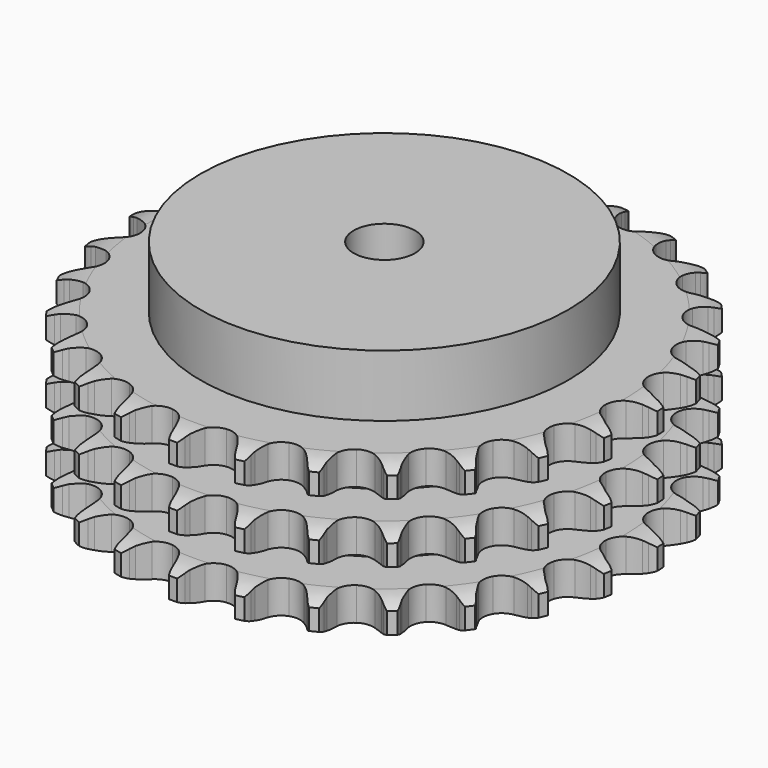
from build123d import *

# Parameters (mm, degrees)
PAD_DEPTH         = 49.8
SKETCH001_R       = 60
PAD001_DEPTH      = 70
SKETCH002_R       = 10
POCKET_DEPTH      = 0.001
POCKET_DEPTH_BACK = 70.001


with BuildPart() as part:
    # Sprocket → Pad (new body)
    with BuildSketch(Plane.XY):
        with BuildLine():
            ThreePointArc((-10.223451, 87.467216), (-8.67739, 85.726182), (-7.581898, 83.671577))
            Line((-7.581898, 83.671577), (-6.99412, 82.163716))
            ThreePointArc((-6.99412, 82.163716), (-6.059632, 80.184804), (-4.86001, 78.354431))
            ThreePointArc((-4.86001, 78.354431), (-2.712671, 76.57905), (0, 75.943076))
            ThreePointArc((0, 75.943076), (2.712671, 76.57905), (4.86001, 78.354431))
            ThreePointArc((4.86001, 78.354431), (6.059632, 80.184804), (6.99412, 82.163716))
            Line((6.99412, 82.163716), (7.581898, 83.671577))
            ThreePointArc((7.581898, 83.671577), (8.67739, 85.726182), (10.223451, 87.467216))
            ThreePointArc((10.223451, 87.467216), (11.326328, 85.416565), (11.918466, 83.164705))
            Line((11.918466, 83.164705), (12.142664, 81.561937))
            ThreePointArc((12.142664, 81.561937), (12.595595, 79.42086), (13.340768, 77.363173))
            ThreePointArc((13.340768, 77.363173), (15.020794, 75.140437), (17.513679, 73.896021))
            ThreePointArc((17.513679, 73.896021), (20.299894, 73.889267), (22.798783, 75.121582))
            Line((22.798783, 75.121582), (25.75385, 78.336027))
            ThreePointArc((25.75385, 78.336027), (26.19658, 79.013673), (26.673521, 79.667692))
            ThreePointArc((26.673521, 79.667692), (28.213308, 81.414277), (30.119205, 82.751835))
            ThreePointArc((30.119205, 82.751835), (30.719441, 80.50212), (30.776303, 78.174402))
            Line((30.776303, 78.174402), (30.624834, 76.563134))
            ThreePointArc((30.624834, 76.563134), (30.57179, 74.375316), (30.822341, 72.201246))
            ThreePointArc((30.822341, 72.201246), (31.944484, 69.650983), (34.08319, 67.865212))
            ThreePointArc((34.08319, 67.865212), (36.792746, 67.216094), (39.508468, 67.838909))
            Line((39.508468, 67.838909), (43.125183, 70.285223))
            ThreePointArc((43.125183, 70.285223), (43.712255, 70.842502), (44.327167, 71.368902))
            ThreePointArc((44.327167, 71.368902), (46.228239, 72.713308), (48.391224, 73.575282))
            ThreePointArc((48.391224, 73.575282), (48.456461, 71.247784), (47.974982, 68.969697))
            Line((47.974982, 68.969697), (47.456012, 67.436792))
            ThreePointArc((47.456012, 67.436792), (46.899851, 65.32018), (46.642274, 63.146931))
            ThreePointArc((46.642274, 63.146931), (47.146038, 60.406627), (48.815268, 58.175771))
            ThreePointArc((48.815268, 58.175771), (51.302091, 56.919285), (54.088241, 56.899023))
            Line((54.088241, 56.899023), (58.171626, 58.445324))
            ThreePointArc((58.171626, 58.445324), (58.871391, 58.852194), (59.591124, 59.222596))
            ThreePointArc((59.591124, 59.222596), (61.750994, 60.092346), (64.05446, 60.432267))
            ThreePointArc((64.05446, 60.432267), (63.58118, 58.152462), (62.587317, 56.046817))
            Line((62.587317, 56.046817), (61.728823, 54.674915))
            ThreePointArc((61.728823, 54.674915), (60.69953, 52.743616), (59.94771, 50.688348))
            ThreePointArc((59.94771, 50.688348), (59.805937, 47.905734), (60.915703, 45.35006))
            ThreePointArc((60.915703, 45.35006), (63.045726, 43.553942), (65.752103, 42.891695))
            Line((65.752103, 42.891695), (70.082021, 43.454623))
            ThreePointArc((70.082021, 43.454623), (70.856755, 43.689148), (71.642508, 43.883584))
            ThreePointArc((71.642508, 43.883584), (73.944737, 44.23179), (76.264504, 44.031332))
            ThreePointArc((76.264504, 44.031332), (75.278222, 41.922125), (73.825553, 40.10244))
            Line((73.825553, 40.10244), (72.673818, 38.965499))
            ThreePointArc((72.673818, 38.965499), (71.226881, 37.32363), (70.021349, 35.497144))
            ThreePointArc((70.021349, 35.497144), (69.241683, 32.82223), (69.732156, 30.079516))
            ThreePointArc((69.732156, 30.079516), (71.390551, 27.840594), (73.871252, 26.572066))
            Line((73.871252, 26.572066), (78.214277, 26.121272))
            ThreePointArc((78.214277, 26.121272), (79.022212, 26.17081), (79.831626, 26.178797))
            ThreePointArc((79.831626, 26.178797), (82.152099, 25.986686), (84.363108, 25.256657))
            ThreePointArc((84.363108, 25.256657), (82.916995, 23.431756), (81.083835, 21.996129))
            Line((81.083835, 21.996129), (79.700948, 21.155443))
            ThreePointArc((79.700948, 21.155443), (77.914373, 19.891518), (76.32012, 18.392279))
            ThreePointArc((76.32012, 18.392279), (74.944592, 15.969271), (74.78933, 13.187377))
            ThreePointArc((74.78933, 13.187377), (75.886692, 10.626353), (78.007983, 8.819929))
            Line((78.007983, 8.819929), (82.129981, 7.379716))
            ThreePointArc((82.129981, 7.379716), (82.927563, 7.241596), (83.717, 7.062705))
            ThreePointArc((83.717, 7.062705), (85.930621, 6.340634), (87.913676, 5.120389))
            ThreePointArc((87.913676, 5.120389), (86.085692, 3.678175), (83.970866, 2.704001))
            Line((83.970866, 2.704001), (82.43138, 2.204892))
            ThreePointArc((82.43138, 2.204892), (80.401481, 1.387048), (78.504452, 0.295882))
            ThreePointArc((78.504452, 0.295882), (76.607218, -1.744595), (75.814592, -4.415697))
            ThreePointArc((75.814592, -4.415697), (76.291762, -7.160757), (77.939284, -9.407692))
            Line((77.939284, -9.407692), (81.618036, -11.759683))
            ThreePointArc((81.618036, -11.759683), (82.362266, -12.078015), (83.089169, -12.43414))
            ThreePointArc((83.089169, -12.43414), (85.076601, -13.647244), (86.724794, -15.291921))
            ThreePointArc((86.724794, -15.291921), (84.613487, -16.273697), (82.331006, -16.7339))
            Line((82.331006, -16.7339), (80.717914, -16.864525))
            ThreePointArc((80.717914, -16.864525), (78.554124, -17.192197), (76.45659, -17.816466))
            ThreePointArc((76.45659, -17.816466), (74.139929, -19.364409), (72.75267, -21.78072))
            ThreePointArc((72.75267, -21.78072), (72.583924, -24.561829), (73.668857, -27.128142))
            Line((73.668857, -27.128142), (76.706042, -30.265113))
            ThreePointArc((76.706042, -30.265113), (77.356799, -30.746496), (77.98198, -31.260658))
            ThreePointArc((77.98198, -31.260658), (79.636079, -32.899395), (80.860556, -34.879839))
            ThreePointArc((80.860556, -34.879839), (78.579746, -35.34825), (76.25266, -35.269672))
            Line((76.25266, -35.269672), (74.652925, -35.024772))
            ThreePointArc((74.652925, -35.024772), (72.471894, -34.844607), (70.286933, -34.968324))
            ThreePointArc((70.286933, -34.968324), (67.675738, -35.940283), (65.768633, -37.971538))
            ThreePointArc((65.768633, -37.971538), (64.963067, -40.638767), (65.426923, -43.386107))
            Line((65.426923, -43.386107), (67.658805, -47.138944))
            ThreePointArc((67.658805, -47.138944), (68.181006, -47.757426), (68.670762, -48.401905))
            ThreePointArc((68.670762, -48.401905), (69.902356, -50.377931), (70.637105, -52.587376))
            ThreePointArc((70.637105, -52.587376), (68.309751, -52.51717), (66.063514, -51.904047))
            Line((66.063514, -51.904047), (64.563378, -51.296824))
            ThreePointArc((64.563378, -51.296824), (62.482685, -50.618535), (60.328089, -50.23503))
            ThreePointArc((60.328089, -50.23503), (57.56313, -50.578607), (55.238992, -52.115301))
            ThreePointArc((55.238992, -52.115301), (53.840035, -54.524858), (53.657807, -57.305116))
            Line((53.657807, -57.305116), (54.964065, -61.471502))
            ThreePointArc((54.964065, -61.471502), (55.329558, -62.19374), (55.657485, -62.933793))
            ThreePointArc((55.657485, -62.933793), (56.400178, -65.14058), (56.605589, -67.459914))
            ThreePointArc((56.605589, -67.459914), (54.35716, -66.854876), (52.312866, -65.740261))
            Line((52.312866, -65.740261), (50.993202, -64.803451))
            ThreePointArc((50.993202, -64.803451), (49.125019, -63.663605), (47.116942, -62.793553))
            ThreePointArc((47.116942, -62.793553), (44.347279, -62.490226), (41.731402, -63.449514))
            ThreePointArc((41.731402, -63.449514), (39.814472, -65.4715), (38.995985, -68.134791))
            Line((38.995985, -68.134791), (39.306197, -72.490115))
            ThreePointArc((39.306197, -72.490115), (39.495279, -73.277174), (39.643699, -74.072904))
            ThreePointArc((39.643699, -74.072904), (39.857453, -76.391484), (39.522451, -78.695671))
            ThreePointArc((39.522451, -78.695671), (37.47416, -77.588418), (35.742019, -76.032401))
            Line((35.742019, -76.032401), (34.673969, -74.816508))
            ThreePointArc((34.673969, -74.816508), (33.11901, -73.276553), (31.365709, -71.96686))
            ThreePointArc((31.365709, -71.96686), (28.740654, -71.03298), (25.974062, -71.363148))
            ThreePointArc((25.974062, -71.363148), (23.642501, -72.888556), (22.231879, -75.291302))
            Line((22.231879, -75.291302), (21.529323, -79.600768))
            ThreePointArc((21.529323, -79.600768), (21.5318, -80.410217), (21.492711, -81.218725))
            ThreePointArc((21.492711, -81.218725), (21.166001, -83.524103), (20.308648, -85.688923))
            ThreePointArc((20.308648, -85.688923), (18.570919, -84.139148), (17.244309, -82.225615))
            Line((17.244309, -82.225615), (16.485454, -80.796186))
            ThreePointArc((16.485454, -80.796186), (15.327546, -78.939143), (13.923542, -77.260414))
            ThreePointArc((13.923542, -77.260414), (11.584614, -75.746328), (8.816453, -75.429576))
            ThreePointArc((8.816453, -75.429576), (6.195957, -76.376172), (4.269246, -78.388839))
            Line((4.269246, -78.388839), (2.591797, -82.420122))
            ThreePointArc((2.591797, -82.420122), (2.407535, -83.208324), (2.183045, -83.986024))
            ThreePointArc((2.183045, -83.986024), (1.333485, -86.153915), (0, -88.062664))
            ThreePointArc((0, -88.062664), (-1.333485, -86.153915), (-2.183045, -83.986024))
            Line((-2.183045, -83.986024), (-2.591797, -82.420122))
            ThreePointArc((-2.591797, -82.420122), (-3.290229, -80.346104), (-4.269246, -78.388839))
            ThreePointArc((-4.269246, -78.388839), (-6.195957, -76.376172), (-8.816453, -75.429576))
            ThreePointArc((-8.816453, -75.429576), (-11.584614, -75.746328), (-13.923542, -77.260414))
            Line((-13.923542, -77.260414), (-16.485454, -80.796186))
            ThreePointArc((-16.485454, -80.796186), (-16.84652, -81.520648), (-17.244309, -82.225615))
            ThreePointArc((-17.244309, -82.225615), (-18.570919, -84.139148), (-20.308648, -85.688923))
            ThreePointArc((-20.308648, -85.688923), (-21.166001, -83.524103), (-21.492711, -81.218725))
            Line((-21.492711, -81.218725), (-21.529323, -79.600768))
            ThreePointArc((-21.529323, -79.600768), (-21.730627, -77.421585), (-22.231879, -75.291302))
            ThreePointArc((-22.231879, -75.291302), (-23.642501, -72.888556), (-25.974062, -71.363148))
            ThreePointArc((-25.974062, -71.363148), (-28.740654, -71.03298), (-31.365709, -71.96686))
            Line((-31.365709, -71.96686), (-34.673969, -74.816508))
            ThreePointArc((-34.673969, -74.816508), (-35.192376, -75.438174), (-35.742019, -76.032401))
            ThreePointArc((-35.742019, -76.032401), (-37.47416, -77.588418), (-39.522451, -78.695671))
            ThreePointArc((-39.522451, -78.695671), (-39.857453, -76.391484), (-39.643699, -74.072904))
            Line((-39.643699, -74.072904), (-39.306197, -72.490115))
            ThreePointArc((-39.306197, -72.490115), (-38.999521, -70.323249), (-38.995985, -68.134791))
            ThreePointArc((-38.995985, -68.134791), (-39.814472, -65.4715), (-41.731402, -63.449514))
            ThreePointArc((-41.731402, -63.449514), (-44.347279, -62.490226), (-47.116942, -62.793553))
            Line((-47.116942, -62.793553), (-50.993202, -64.803451))
            ThreePointArc((-50.993202, -64.803451), (-51.641001, -65.288808), (-52.312866, -65.740261))
            ThreePointArc((-52.312866, -65.740261), (-54.35716, -66.854876), (-56.605589, -67.459914))
            ThreePointArc((-56.605589, -67.459914), (-56.400178, -65.14058), (-55.657485, -62.933793))
            Line((-55.657485, -62.933793), (-54.964065, -61.471502))
            ThreePointArc((-54.964065, -61.471502), (-54.165941, -59.433768), (-53.657807, -57.305116))
            ThreePointArc((-53.657807, -57.305116), (-53.840035, -54.524858), (-55.238992, -52.115301))
            ThreePointArc((-55.238992, -52.115301), (-57.56313, -50.578607), (-60.328089, -50.23503))
            Line((-60.328089, -50.23503), (-64.563378, -51.296824))
            ThreePointArc((-64.563378, -51.296824), (-65.305646, -51.619705), (-66.063514, -51.904047))
            ThreePointArc((-66.063514, -51.904047), (-68.309751, -52.51717), (-70.637105, -52.587376))
            ThreePointArc((-70.637105, -52.587376), (-69.902356, -50.377931), (-68.670762, -48.401905))
            Line((-68.670762, -48.401905), (-67.658805, -47.138944))
            ThreePointArc((-67.658805, -47.138944), (-66.412262, -45.340197), (-65.426923, -43.386107))
            ThreePointArc((-65.426923, -43.386107), (-64.963067, -40.638767), (-65.768633, -37.971538))
            ThreePointArc((-65.768633, -37.971538), (-67.675738, -35.940283), (-70.286933, -34.968324))
            Line((-70.286933, -34.968324), (-74.652925, -35.024772))
            ThreePointArc((-74.652925, -35.024772), (-75.449647, -35.167771), (-76.25266, -35.269672))
            ThreePointArc((-76.25266, -35.269672), (-78.579746, -35.34825), (-80.860556, -34.879839))
            ThreePointArc((-80.860556, -34.879839), (-79.636079, -32.899395), (-77.98198, -31.260658))
            Line((-77.98198, -31.260658), (-76.706042, -30.265113))
            ThreePointArc((-76.706042, -30.265113), (-75.07828, -28.802325), (-73.668857, -27.128142))
            ThreePointArc((-73.668857, -27.128142), (-72.583924, -24.561829), (-72.75267, -21.78072))
            ThreePointArc((-72.75267, -21.78072), (-74.139929, -19.364409), (-76.45659, -17.816466))
            Line((-76.45659, -17.816466), (-80.717914, -16.864525))
            ThreePointArc((-80.717914, -16.864525), (-81.526138, -16.819933), (-82.331006, -16.7339))
            ThreePointArc((-82.331006, -16.7339), (-84.613487, -16.273697), (-86.724794, -15.291921))
            ThreePointArc((-86.724794, -15.291921), (-85.076601, -13.647244), (-83.089169, -12.43414))
            Line((-83.089169, -12.43414), (-81.618036, -11.759683))
            ThreePointArc((-81.618036, -11.759683), (-79.696808, -10.711712), (-77.939284, -9.407692))
            ThreePointArc((-77.939284, -9.407692), (-76.291762, -7.160757), (-75.814592, -4.415697))
            ThreePointArc((-75.814592, -4.415697), (-76.607218, -1.744595), (-78.504452, 0.295882))
            Line((-78.504452, 0.295882), (-82.43138, 2.204892))
            ThreePointArc((-82.43138, 2.204892), (-83.207534, 2.434672), (-83.970866, 2.704001))
            ThreePointArc((-83.970866, 2.704001), (-86.085692, 3.678175), (-87.913676, 5.120389))
            ThreePointArc((-87.913676, 5.120389), (-85.930621, 6.340634), (-83.717, 7.062705))
            Line((-83.717, 7.062705), (-82.129981, 7.379716))
            ThreePointArc((-82.129981, 7.379716), (-80.018861, 7.956373), (-78.007983, 8.819929))
            ThreePointArc((-78.007983, 8.819929), (-75.886692, 10.626353), (-74.78933, 13.187377))
            ThreePointArc((-74.78933, 13.187377), (-74.944592, 15.969271), (-76.32012, 18.392279))
            Line((-76.32012, 18.392279), (-79.700948, 21.155443))
            ThreePointArc((-79.700948, 21.155443), (-80.40319, 21.558023), (-81.083835, 21.996129))
            ThreePointArc((-81.083835, 21.996129), (-82.916995, 23.431756), (-84.363108, 25.256657))
            ThreePointArc((-84.363108, 25.256657), (-82.152099, 25.986686), (-79.831626, 26.178797))
            Line((-79.831626, 26.178797), (-78.214277, 26.121272))
            ThreePointArc((-78.214277, 26.121272), (-76.027077, 26.195527), (-73.871252, 26.572066))
            ThreePointArc((-73.871252, 26.572066), (-71.390551, 27.840594), (-69.732156, 30.079516))
            ThreePointArc((-69.732156, 30.079516), (-69.241683, 32.82223), (-70.021349, 35.497144))
            Line((-70.021349, 35.497144), (-72.673818, 38.965499))
            ThreePointArc((-72.673818, 38.965499), (-73.26429, 39.519175), (-73.825553, 40.10244))
            ThreePointArc((-73.825553, 40.10244), (-75.278222, 41.922125), (-76.264504, 44.031332))
            ThreePointArc((-76.264504, 44.031332), (-73.944737, 44.23179), (-71.642508, 43.883584))
            Line((-71.642508, 43.883584), (-70.082021, 43.454623))
            ThreePointArc((-70.082021, 43.454623), (-67.936653, 43.022474), (-65.752103, 42.891695))
            ThreePointArc((-65.752103, 42.891695), (-63.045726, 43.553942), (-60.915703, 45.35006))
            ThreePointArc((-60.915703, 45.35006), (-59.805937, 47.905734), (-59.94771, 50.688348))
            Line((-59.94771, 50.688348), (-61.728823, 54.674915))
            ThreePointArc((-61.728823, 54.674915), (-62.175692, 55.349839), (-62.587317, 56.046817))
            ThreePointArc((-62.587317, 56.046817), (-63.58118, 58.152462), (-64.05446, 60.432267))
            ThreePointArc((-64.05446, 60.432267), (-61.750994, 60.092346), (-59.591124, 59.222596))
            Line((-59.591124, 59.222596), (-58.171626, 58.445324))
            ThreePointArc((-58.171626, 58.445324), (-56.183746, 57.530068), (-54.088241, 56.899023))
            ThreePointArc((-54.088241, 56.899023), (-51.302091, 56.919285), (-48.815268, 58.175771))
            ThreePointArc((-48.815268, 58.175771), (-47.146038, 60.406627), (-46.642274, 63.146931))
            Line((-46.642274, 63.146931), (-47.456012, 67.436792))
            ThreePointArc((-47.456012, 67.436792), (-47.735187, 68.196578), (-47.974982, 68.969697))
            ThreePointArc((-47.974982, 68.969697), (-48.456461, 71.247784), (-48.391224, 73.575282))
            ThreePointArc((-48.391224, 73.575282), (-46.228239, 72.713308), (-44.327167, 71.368902))
            Line((-44.327167, 71.368902), (-43.125183, 70.285223))
            ThreePointArc((-43.125183, 70.285223), (-41.401959, 68.936201), (-39.508468, 67.838909))
            ThreePointArc((-39.508468, 67.838909), (-36.792746, 67.216094), (-34.08319, 67.865212))
            ThreePointArc((-34.08319, 67.865212), (-31.944484, 69.650983), (-30.822341, 72.201246))
            Line((-30.822341, 72.201246), (-30.624834, 76.563134))
            ThreePointArc((-30.624834, 76.563134), (-30.721266, 77.366822), (-30.776303, 78.174402))
            ThreePointArc((-30.776303, 78.174402), (-30.719441, 80.50212), (-30.119205, 82.751835))
            ThreePointArc((-30.119205, 82.751835), (-28.213308, 81.414277), (-26.673521, 79.667692))
            Line((-26.673521, 79.667692), (-25.75385, 78.336027))
            ThreePointArc((-25.75385, 78.336027), (-24.388182, 76.625965), (-22.798783, 75.121582))
            ThreePointArc((-22.798783, 75.121582), (-20.299894, 73.889267), (-17.513679, 73.896021))
            ThreePointArc((-17.513679, 73.896021), (-15.020794, 75.140437), (-13.340768, 77.363173))
            Line((-13.340768, 77.363173), (-12.142664, 81.561937))
            ThreePointArc((-12.142664, 81.561937), (-12.051153, 82.366201), (-11.918466, 83.164705))
            ThreePointArc((-11.918466, 83.164705), (-11.326328, 85.416565), (-10.223451, 87.467216))
        make_face()
    extrude(amount=PAD_DEPTH)

    # Sketch → Groove (revolve, cut)
    with BuildSketch(Plane.XZ):
        with BuildLine():
            ThreePointArc((77.664719, 0), (82.023618, 0.506758), (86.15, 2))
            Line((86.15, 2), (86.15, 8.8))
            ThreePointArc((86.15, 8.8), (82.023618, 10.293242), (77.664719, 10.8))
            Line((60, 10.8), (77.664719, 10.8))
            Line((60, 10.8), (60, 19.5))
            Line((60, 19.5), (77.664719, 19.5))
            ThreePointArc((77.664719, 19.5), (82.023618, 20.006758), (86.15, 21.5))
            Line((86.15, 28.3), (86.15, 21.5))
            ThreePointArc((86.15, 28.3), (82.023618, 29.793242), (77.664719, 30.3))
            Line((60, 30.3), (77.664719, 30.3))
            Line((60, 39), (60, 30.3))
            Line((77.664719, 39), (60, 39))
            ThreePointArc((77.664719, 39), (82.023618, 39.506758), (86.15, 41))
            Line((86.15, 41), (86.15, 47.8))
            ThreePointArc((86.15, 47.8), (82.023618, 49.293242), (77.664719, 49.8))
            Line((77.664719, 49.8), (96.15, 49.8))
            Line((96.15, 49.8), (96.15, 0))
            Line((77.664719, 0), (96.15, 0))
        make_face()
    revolve(axis=Axis((0, 0, 0), (0, 0, 1)), mode=Mode.SUBTRACT)

    # Sketch001 → Pad001 (join)
    with BuildSketch(Plane.XY):
        Circle(SKETCH001_R)
    extrude(amount=PAD001_DEPTH)

    # Sketch002 → Pocket (cut, two sides)
    with BuildSketch(Plane.XY) as pocket_sk:
        Circle(SKETCH002_R)
    extrude(amount=-POCKET_DEPTH, mode=Mode.SUBTRACT)
    extrude(pocket_sk.sketch, amount=POCKET_DEPTH_BACK, mode=Mode.SUBTRACT)


solid = part.part
